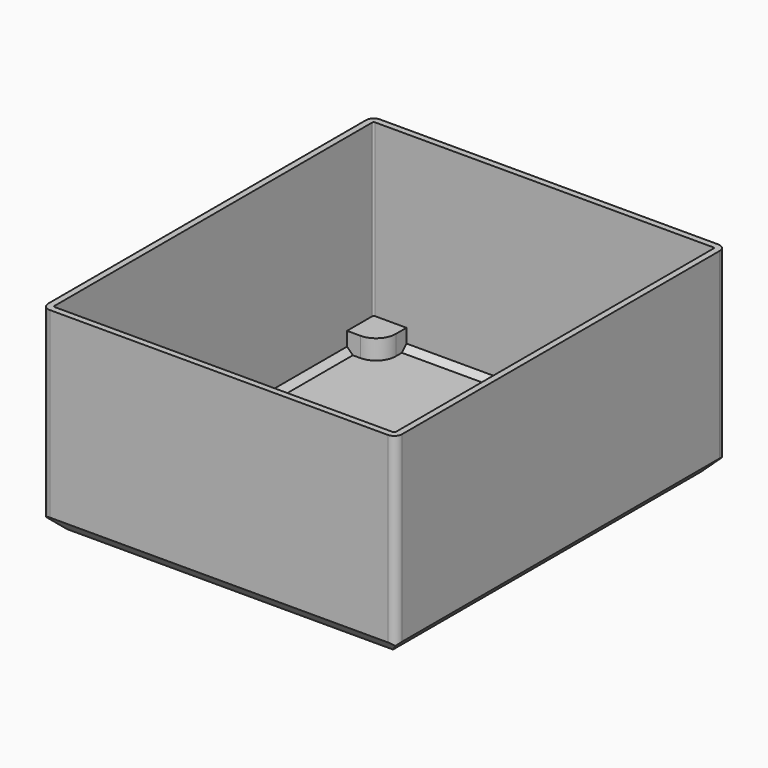
from build123d import *

# Parameters (mm, degrees)
SKETCH_W        = 90
SKETCH_H        = 105
PAD_DEPTH       = 50
POCKET_DEPTH    = 48.4
PAD001_DEPTH    = 105
PAD002_DEPTH    = 90
PAD003_DEPTH    = 6.6
SKETCH008_R     = 1
POCKET004_DEPTH = 5
POCKET001_DEPTH = 105.001
POCKET002_DEPTH = 90.001
POCKET003_DEPTH = 50.001


with BuildPart() as part:
    # Sketch → Pad (new body)
    with BuildSketch(Plane.XY):
        Rectangle(SKETCH_W, SKETCH_H)
    extrude(amount=PAD_DEPTH)

    # Sketch001 (on DatumPlane) → Pocket (cut)
    with BuildSketch(Plane.XY.offset(50)):
        with BuildLine():
            Line((-43, 50.9), (43, 50.9))
            ThreePointArc((43.4, 50.5), (43.282843, 50.782843), (43, 50.9))
            Line((43.4, 50.5), (43.4, -50.5))
            ThreePointArc((43, -50.9), (43.282843, -50.782843), (43.4, -50.5))
            Line((43, -50.9), (-43, -50.9))
            ThreePointArc((-43.4, -50.5), (-43.282843, -50.782843), (-43, -50.9))
            Line((-43.4, -50.5), (-43.4, 50.5))
            ThreePointArc((-43, 50.9), (-43.282843, 50.782843), (-43.4, 50.5))
        make_face()
    extrude(amount=-POCKET_DEPTH, mode=Mode.SUBTRACT)

    # Sketch002 (on DatumPlane) → Pad001 (join)
    with BuildSketch(Plane.XZ.offset(52.5)):
        Polygon((-45, 4.666905), (-40.333095, 0), (-45, 0), align=None)
        Polygon((40.333095, 0), (45, 0), (45, 4.666905), align=None)
    extrude(amount=-PAD001_DEPTH)

    # Sketch003 (on DatumPlane) → Pad002 (join)
    with BuildSketch(Plane.YZ.offset(45)):
        Polygon((-52.5, 4.666905), (-52.5, 0), (-47.833095, 0), align=None)
        Polygon((47.833095, 0), (52.5, 0), (52.5, 4.666905), align=None)
    extrude(amount=-PAD002_DEPTH)

    # Sketch007 → Pad003 (join)
    with BuildSketch(Plane.XY):
        with BuildLine():
            ThreePointArc((-40, 42.5), (-36.464466, 43.964466), (-35, 47.5))
            Line((-35, 52.5), (-35, 47.5))
            Line((-35, 52.5), (-45, 52.5))
            Line((-45, 52.5), (-45, 42.5))
            Line((-40, 42.5), (-45, 42.5))
        make_face()
        with BuildLine():
            ThreePointArc((35, 47.5), (36.464466, 43.964466), (40, 42.5))
            Line((45, 42.5), (40, 42.5))
            Line((45, 52.5), (45, 42.5))
            Line((45, 52.5), (35, 52.5))
            Line((35, 52.5), (35, 47.5))
        make_face()
        with BuildLine():
            ThreePointArc((40, -42.5), (36.464466, -43.964466), (35, -47.5))
            Line((35, -47.5), (35, -52.5))
            Line((45, -52.5), (35, -52.5))
            Line((45, -42.5), (45, -52.5))
            Line((45, -42.5), (40, -42.5))
        make_face()
        with BuildLine():
            ThreePointArc((-35, -47.5), (-36.464466, -43.964466), (-40, -42.5))
            Line((-40, -42.5), (-45, -42.5))
            Line((-45, -42.5), (-45, -52.5))
            Line((-45, -52.5), (-35, -52.5))
            Line((-35, -47.5), (-35, -52.5))
        make_face()
    extrude(amount=PAD003_DEPTH)

    # Sketch008 → Pocket004 (cut)
    with BuildSketch(Plane.XY):
        with Locations((-40, 47.5)):
            Circle(SKETCH008_R)
        with Locations((40, 47.5)):
            Circle(SKETCH008_R)
        with Locations((40, -47.5)):
            Circle(SKETCH008_R)
        with Locations((-40, -47.5)):
            Circle(SKETCH008_R)
    extrude(amount=POCKET004_DEPTH, mode=Mode.SUBTRACT)

    # Sketch004 (on DatumPlane) → Pocket001 (cut, through all)
    with BuildSketch(Plane.XZ.offset(52.5)):
        Polygon((-45, 0), (-45, 3.535534), (-41.464466, 0), align=None)
        Polygon((41.464466, 0), (45, 0), (45, 3.535534), align=None)
    extrude(amount=-POCKET001_DEPTH, mode=Mode.SUBTRACT)

    # Sketch005 (on DatumPlane) → Pocket002 (cut, through all)
    with BuildSketch(Plane.YZ.offset(45)):
        Polygon((-52.5, 0), (-52.5, 3.535534), (-48.964466, 0), align=None)
        Polygon((48.964466, 0), (52.5, 0), (52.5, 3.535534), align=None)
    extrude(amount=-POCKET002_DEPTH, mode=Mode.SUBTRACT)

    # Sketch006 (on DatumPlane) → Pocket003 (cut, through all)
    with BuildSketch(Plane.XY.offset(50)):
        with BuildLine():
            ThreePointArc((-43, 52.5), (-44.414214, 51.914214), (-45, 50.5))
            Line((-45, 52.5), (-45, 50.5))
            Line((-43, 52.5), (-45, 52.5))
        make_face()
        with BuildLine():
            ThreePointArc((45, 50.5), (44.414214, 51.914214), (43, 52.5))
            Line((43, 52.5), (45, 52.5))
            Line((45, 50.5), (45, 52.5))
        make_face()
        with BuildLine():
            ThreePointArc((43, -52.5), (44.414214, -51.914214), (45, -50.5))
            Line((45, -52.5), (45, -50.5))
            Line((43, -52.5), (45, -52.5))
        make_face()
        with BuildLine():
            ThreePointArc((-45, -50.5), (-44.414214, -51.914214), (-43, -52.5))
            Line((-45, -52.5), (-43, -52.5))
            Line((-45, -50.5), (-45, -52.5))
        make_face()
    extrude(amount=-POCKET003_DEPTH, mode=Mode.SUBTRACT)


solid = part.part
